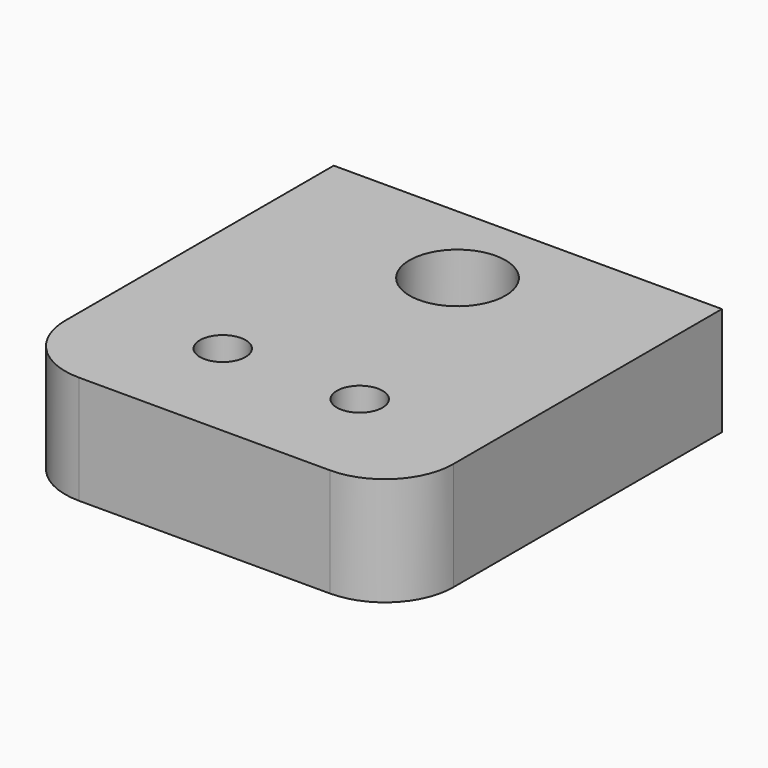
from build123d import *

# Parameters (mm, degrees)
F0_W     = 17
F0_H     = 17.7
F0_R     = 1
F0_R_2   = 2.1
F1_DEPTH = 4.75
F2_R     = 3


with BuildPart() as f1:
    # F0 (on Top) → F1 (new body)
    with BuildSketch(Plane.XY):
        Rectangle(F0_W, F0_H)
        with Locations((-3, -4.1)):
            Circle(F0_R, mode=Mode.SUBTRACT)
        with Locations((3, -4.1)):
            Circle(F0_R, mode=Mode.SUBTRACT)
        with Locations((0, 5)):
            Circle(F0_R_2, mode=Mode.SUBTRACT)
    extrude(amount=F1_DEPTH)

    # F2
    f2_edges = [f1.edges().sort_by_distance(p)[0] for p in [
        (-8.5, -8.85, 2.375),
        (8.5, -8.85, 2.375),
    ]]
    fillet(f2_edges, radius=F2_R)


solid = f1.part
